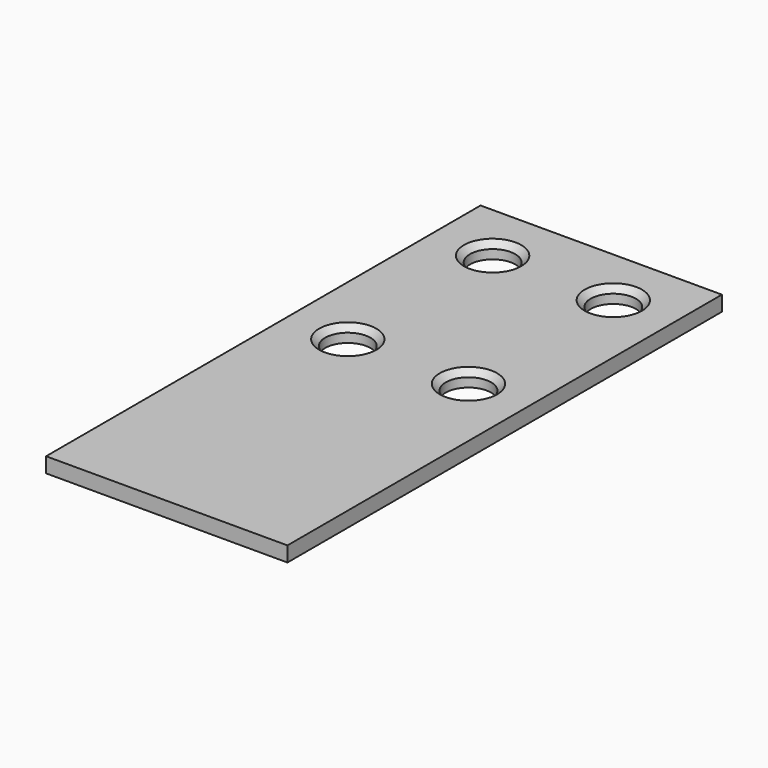
from build123d import *

# Parameters (mm, degrees)
F0_R     = 9.525
F1_DEPTH = 6.35
F2_SIZE  = 2.54


with BuildPart() as f1:
    # F0 (on Top) → F1 (new body)
    with BuildSketch(Plane.XY):
        Polygon((50.8, 114.3), (-50.8, 114.3), (-50.8, 0), (-50.8, -114.3), (50.8, -114.3), (50.8, 0), align=None)
        with Locations((-25.4, 12.7)):
            Circle(F0_R, mode=Mode.SUBTRACT)
        with Locations((-25.4, 88.9)):
            Circle(F0_R, mode=Mode.SUBTRACT)
        with Locations((25.4, 12.7)):
            Circle(F0_R, mode=Mode.SUBTRACT)
        with Locations((25.4, 88.9)):
            Circle(F0_R, mode=Mode.SUBTRACT)
    extrude(amount=F1_DEPTH)

    # F2
    f2_edges = [f1.edges().sort_by_distance(p)[0] for p in [
        (-34.925, 88.9, 6.35),
        (15.875, 88.9, 6.35),
        (15.875, 12.7, 6.35),
        (-34.925, 12.7, 6.35),
    ]]
    chamfer(f2_edges, length=F2_SIZE)


solid = f1.part
